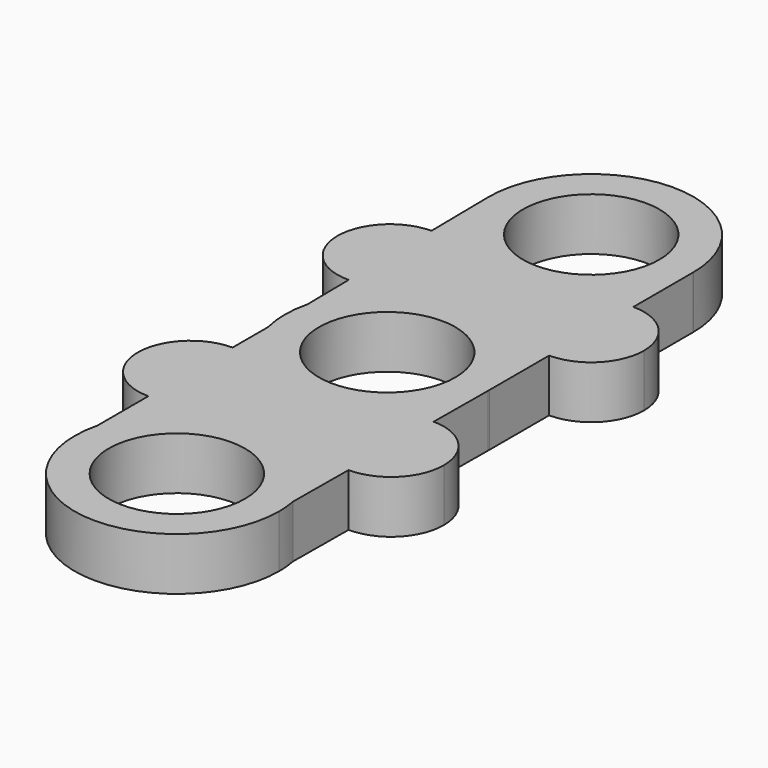
from build123d import *

# Parameters (mm, degrees)
F0_R     = 11
F1_DEPTH = 8.5


with BuildPart() as f1:
    # F0 (on Top) → F1 (new body)
    with BuildSketch(Plane.XY):
        with BuildLine():
            Line((16.4980617543, -0.2528998809), (16.5000000001, 0))
            ThreePointArc((16.5, 0), (1.9996202367, 16.3783857235), (-16.0153356253, 3.9697638228))
            Line((-16.0153356253, 3.9697638228), (-16.0153356253, -3.9697638228))
            ThreePointArc((-16.0153356253, -3.9697638228), (1.8740398927, -16.3932295317), (16.4980617543, -0.2528998809))
        make_face()
        Circle(F0_R, mode=Mode.SUBTRACT)
        with BuildLine():
            ThreePointArc((-16.0153356253, 3.9697638228), (1.9996202367, 16.3783857235), (16.5, 0))
            Line((16.5000000001, 0), (16.499952187, 12.0399828124))
            ThreePointArc((16.499952187, 12.0399828124), (7.9999184319, 20.5399490572), (16.4998846767, 29.0399828123))
            Line((16.4998846767, 29.0399828123), (16.4998368635, 41.0799656247))
            ThreePointArc((16.4998368635, 41.0799656247), (0.0711537399, 24.653491227), (-16.4985903834, 40.9376636039))
            Line((-16.4985903834, 40.9376636039), (-16.3475404927, 29.3826874159))
            ThreePointArc((-16.3475404927, 29.3826874159), (-10.2654386813, 26.9329752019), (-7.7364356004, 20.8834135821))
            ThreePointArc((-7.7364356004, 20.8834135821), (-10.1868739806, 14.912416663), (-16.1253307082, 12.3841397482))
            Line((-16.1253307082, 12.3841397482), (-16.0153356253, 3.9697638228))
        make_face()
        with BuildLine():
            ThreePointArc((16.4980617543, -0.2528998809), (16.4995154315, -0.1264536541), (16.5, 0))
            Line((16.5000000001, 0), (16.4980617543, -0.2528998809))
        make_face()
        with BuildLine():
            Line((-16.0153356253, -3.9697638228), (-16.0153356253, 3.9697638228))
            ThreePointArc((-16.0153356253, 3.9697638228), (-16.5, 0), (-16.0153356253, -3.9697638228))
        make_face()
        with BuildLine():
            Line((16.4145762702, -11.1459812296), (16.4980617543, -0.2528998809))
            ThreePointArc((16.4980617543, -0.2528998809), (1.8740398927, -16.3932295317), (-16.0153356253, -3.9697638228))
            Line((-16.0153356253, -3.9697638228), (-16.0153356253, -11.1621641517))
            ThreePointArc((-16.0153356253, -11.1621641517), (-10.0049279852, -13.6517565116), (-7.5153356253, -19.6621641517))
            ThreePointArc((-7.5153356253, -19.6621641517), (-10.0049279852, -25.6725717918), (-16.0153356253, -28.1621641517))
            Line((-16.0153356253, -28.1621641517), (-16.0153356253, -38.4596460984))
            ThreePointArc((-16.0153356253, -38.4596460984), (0.4259118008, -25.934907833), (16.1988669486, -39.2914632067))
            Line((16.1988669486, -39.2914632067), (16.2842906785, -28.1454819771))
            ThreePointArc((16.2842906785, -28.1454819771), (7.8496831006, -19.5805888074), (16.4145762702, -11.1459812296))
        make_face()
        with BuildLine():
            ThreePointArc((16.4998846767, 29.0399828123), (7.9999184319, 20.5399490572), (16.499952187, 12.0399828124))
            Line((16.499952187, 12.0399828124), (16.4998846767, 29.0399828123))
        make_face()
        with BuildLine():
            Line((16.4998846767, 29.0399828123), (16.499952187, 12.0399828124))
            ThreePointArc((16.499952187, 12.0399828124), (22.5103380062, 14.5295871065), (24.9999184318, 20.5399828123))
            ThreePointArc((24.9999184318, 20.5399828123), (22.5103141376, 26.5504023867), (16.4998846767, 29.0399828123))
        make_face()
        with BuildLine():
            ThreePointArc((-16.3475404927, 29.3826874159), (-24.7357094343, 20.7723086899), (-16.1253307082, 12.3841397482))
            Line((-16.1253307082, 12.3841397482), (-16.3475404927, 29.3826874159))
        make_face()
        with BuildLine():
            Line((-16.3475404927, 29.3826874159), (-16.1253307082, 12.3841397482))
            ThreePointArc((-16.1253307082, 12.3841397482), (-10.1868739806, 14.912416663), (-7.7364356004, 20.8834135821))
            ThreePointArc((-7.7364356004, 20.8834135821), (-10.2654386813, 26.9329752019), (-16.3475404927, 29.3826874159))
        make_face()
        with BuildLine():
            ThreePointArc((24.8494334743, -19.6457316033), (22.3828286116, -13.658399717), (16.4145762702, -11.1459812296))
            Line((16.4145762702, -11.1459812296), (16.2842906785, -28.1454819771))
            ThreePointArc((16.2842906785, -28.1454819771), (22.3367653607, -25.6791267406), (24.8494334743, -19.6457316033))
        make_face()
        with BuildLine():
            Line((16.2842906785, -28.1454819771), (16.4145762702, -11.1459812296))
            ThreePointArc((16.4145762702, -11.1459812296), (7.8496831006, -19.5805888074), (16.2842906785, -28.1454819771))
        make_face()
        with BuildLine():
            ThreePointArc((-7.5153356253, -19.6621641517), (-10.0049279852, -13.6517565116), (-16.0153356253, -11.1621641517))
            Line((-16.0153356253, -11.1621641517), (-16.0153356253, -28.1621641517))
            ThreePointArc((-16.0153356253, -28.1621641517), (-10.0049279852, -25.6725717918), (-7.5153356253, -19.6621641517))
        make_face()
        with BuildLine():
            Line((-16.0153356253, -28.1621641517), (-16.0153356253, -11.1621641517))
            ThreePointArc((-16.0153356253, -11.1621641517), (-24.5153356253, -19.6621641517), (-16.0153356253, -28.1621641517))
        make_face()
        with BuildLine():
            ThreePointArc((-16.4985903834, 40.9376636039), (0.0711537399, 24.653491227), (16.4998368635, 41.0799656247))
            ThreePointArc((16.4998368635, 41.0799656247), (16.4999592158, 41.1166516249), (16.5, 41.1533378065))
            ThreePointArc((16.5, 41.1533378065), (-0.1078394045, 57.6529853985), (-16.4985903834, 40.9376636039))
        make_face()
        with Locations((0, 41.1533378065)):
            Circle(F0_R, mode=Mode.SUBTRACT)
        with BuildLine():
            ThreePointArc((16.5, -42.4294099212), (16.4245442045, -40.8532285628), (16.1988669486, -39.2914632067))
            ThreePointArc((16.1988669486, -39.2914632067), (0.4259118008, -25.934907833), (-16.0153356253, -38.4596460984))
            ThreePointArc((-16.0153356253, -38.4596460984), (-1.9996202367, -58.8077956447), (16.5, -42.4294099212))
        make_face()
        with Locations((0, -42.4294099212)):
            Circle(F0_R, mode=Mode.SUBTRACT)
    extrude(amount=F1_DEPTH)


solid = f1.part
